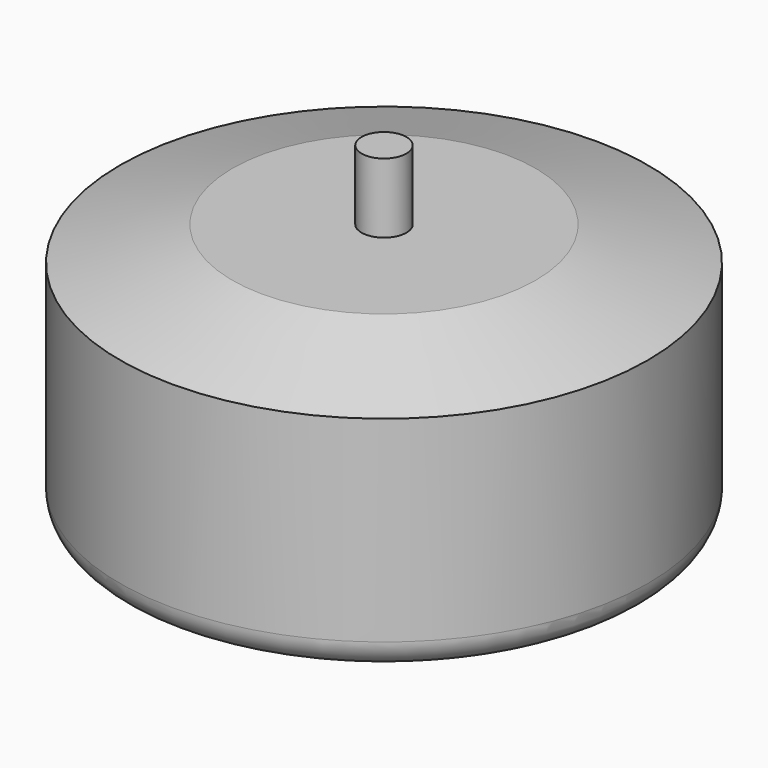
from build123d import *

# Parameters (mm, degrees)
F0_R     = 23.5
F1_DEPTH = 11.5
F2_R     = 2
F3_DEPTH = 6.2
F4_R     = 1.5
F5_DEPTH = 5
F6_SIZE2 = 3
F6_SIZE  = 10
F7_R     = 2.5
F8_R     = 9.525
F9_DEPTH = 2.032


with BuildPart() as f1:
    # F0 (on Top) → F1 (new body, symmetric)
    with BuildSketch(Plane.XY):
        Circle(F0_R)
    extrude(amount=F1_DEPTH, both=True)

    # F2 (on face) → F3 (join)
    with BuildSketch(Plane.XY.offset(11.5)):
        Circle(F2_R)
    extrude(amount=F3_DEPTH)

    # F4 (on face) → F5 (cut)
    with BuildSketch(Plane(origin=(0, 0, -11.5), x_dir=(1, 0, 0), z_dir=(0, 0, -1))):
        with Locations((0, 12.5)):
            Circle(F4_R)
        with Locations((-12.5, 0)):
            Circle(F4_R)
        with Locations((0, -12.5)):
            Circle(F4_R)
        with Locations((12.5, 0)):
            Circle(F4_R)
    extrude(amount=-F5_DEPTH, mode=Mode.SUBTRACT)

    # F6
    f6_edges = [f1.edges().sort_by_distance(p)[0] for p in [
        (-23.5, 0, 11.5),
    ]]
    f6_side = f1.faces().sort_by_distance((-22.83532, 0, 11.5))[0]
    chamfer(f6_edges, length=F6_SIZE, length2=F6_SIZE2, reference=f6_side)

    # F7
    f7_edges = [f1.edges().sort_by_distance(p)[0] for p in [
        (-23.5, 0, -11.5),
    ]]
    fillet(f7_edges, radius=F7_R)

    # F8 (on Top) → F9 (cut, symmetric)
    with BuildSketch(Plane.XY):
        Circle(F8_R)
    extrude(amount=F9_DEPTH, both=True, mode=Mode.SUBTRACT)


solid = f1.part
